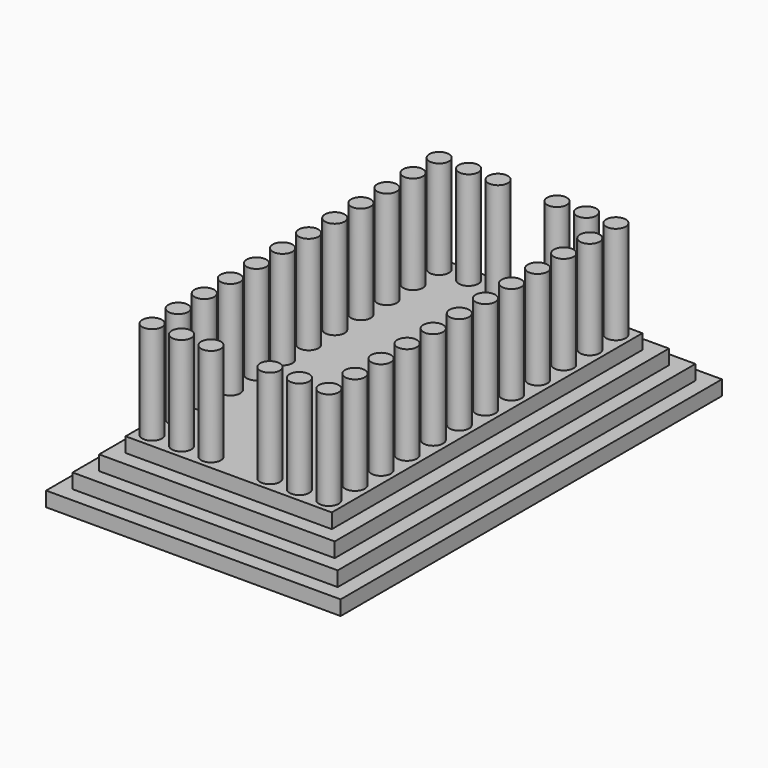
from build123d import *

# Parameters (mm, degrees)
F0_W     = 76.2
F0_H     = 123.29414
F0_W_2   = 68.58
F0_H_2   = 115.67414
F1_DEPTH = 3.81
F0_W_3   = 60.96
F0_H_3   = 108.05414
F2_DEPTH = 7.62
F0_W_4   = 53.34
F0_H_4   = 100.43414
F3_DEPTH = 11.43
F4_DEPTH = 15.24
F5_R     = 2.54
F6_DEPTH = 25.4


with BuildPart() as f1:
    # F0 (on Top) → F1 (new body)
    with BuildSketch(Plane.XY):
        Rectangle(F0_W, F0_H)
        Rectangle(F0_W_2, F0_H_2, mode=Mode.SUBTRACT)
    extrude(amount=F1_DEPTH)

    # F0 (on Top) → F2 (join)
    with BuildSketch(Plane.XY):
        Rectangle(F0_W_2, F0_H_2)
        Rectangle(F0_W_3, F0_H_3, mode=Mode.SUBTRACT)
    extrude(amount=F2_DEPTH)

    # F0 (on Top) → F3 (join)
    with BuildSketch(Plane.XY):
        Rectangle(F0_W_3, F0_H_3)
        Rectangle(F0_W_4, F0_H_4, mode=Mode.SUBTRACT)
    extrude(amount=F3_DEPTH)

    # F0 (on Top) → F4 (join)
    with BuildSketch(Plane.XY):
        Rectangle(F0_W_4, F0_H_4)
    extrude(amount=F4_DEPTH)

    # F5 (on face) → F6 (join)
    with BuildSketch(Plane.XY.offset(15.24)):
        with Locations((-15.24, 46.40707)):
            Circle(F5_R)
        with Locations((-22.86, 46.40707)):
            Circle(F5_R)
        with Locations((-7.62, 46.40707)):
            Circle(F5_R)
        with Locations((-22.86, 37.964364)):
            Circle(F5_R)
        with Locations((-22.86, 29.531564)):
            Circle(F5_R)
        with Locations((-22.86, 21.093938)):
            Circle(F5_R)
        with Locations((-22.86, 12.656312)):
            Circle(F5_R)
        with Locations((-22.86, 4.218686)):
            Circle(F5_R)
        with Locations((-22.86, -4.21894)):
            Circle(F5_R)
        with Locations((-22.86, -12.656566)):
            Circle(F5_R)
        with Locations((7.62, 46.40707)):
            Circle(F5_R)
        with Locations((15.24, 46.40707)):
            Circle(F5_R)
        with Locations((22.86, 46.40707)):
            Circle(F5_R)
        with Locations((22.86, 37.969444)):
            Circle(F5_R)
        with Locations((22.86, 29.531818)):
            Circle(F5_R)
        with Locations((22.86, 21.094192)):
            Circle(F5_R)
        with Locations((22.86, 12.656566)):
            Circle(F5_R)
        with Locations((22.86, 4.21894)):
            Circle(F5_R)
        with Locations((22.86, -4.218686)):
            Circle(F5_R)
        with Locations((22.86, -12.656312)):
            Circle(F5_R)
        with Locations((-22.86, -21.094192)):
            Circle(F5_R)
        with Locations((-22.86, -29.531818)):
            Circle(F5_R)
        with Locations((-22.86, -37.969444)):
            Circle(F5_R)
        with Locations((-22.86, -46.40707)):
            Circle(F5_R)
        with Locations((-15.24, -46.40707)):
            Circle(F5_R)
        with Locations((-7.62, -46.40707)):
            Circle(F5_R)
        with Locations((7.62, -46.40707)):
            Circle(F5_R)
        with Locations((15.24, -46.40707)):
            Circle(F5_R)
        with Locations((22.86, -46.40707)):
            Circle(F5_R)
        with Locations((22.86, -37.96919)):
            Circle(F5_R)
        with Locations((22.86, -29.531564)):
            Circle(F5_R)
        with Locations((22.86, -21.093938)):
            Circle(F5_R)
    extrude(amount=F6_DEPTH)


solid = f1.part
